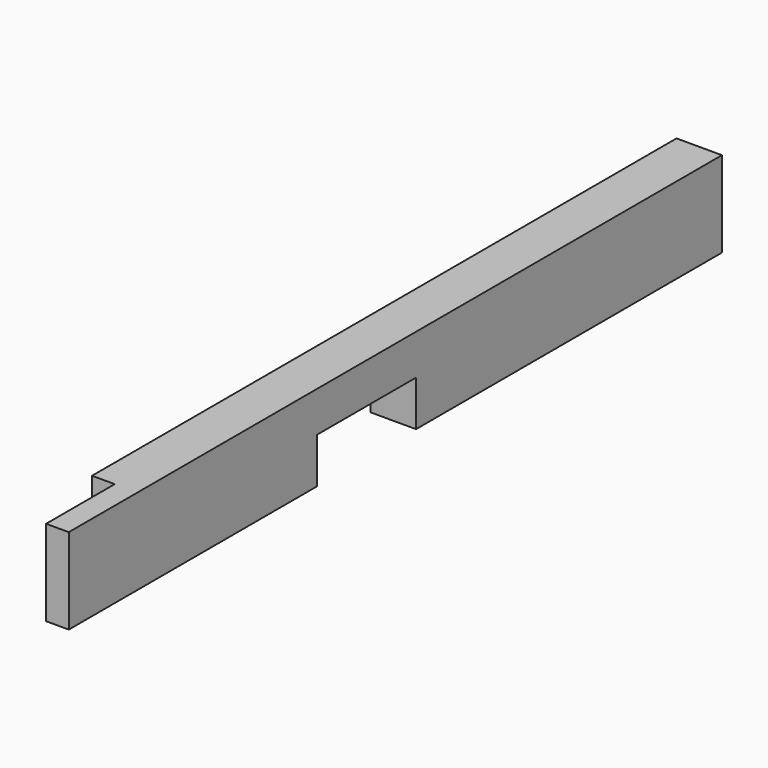
from build123d import *

# Parameters (mm, degrees)
F0_W     = 36
F0_H     = 68
F1_DEPTH = 647
F2_W     = 98
F2_H     = 36
F3_DEPTH = 36
F5_W     = 68
F5_H     = 68
F6_DEPTH = 18


with BuildPart() as f1:
    # F0 (on Front) → F1 (new body)
    with BuildSketch(Plane.XZ):
        Rectangle(F0_W, F0_H)
    extrude(amount=F1_DEPTH)

    # F2 (on face) → F3 (cut, through all)
    with BuildSketch(Plane.YZ.offset(18)):
        with Locations((-352, -16)):
            Rectangle(F2_W, F2_H)
    extrude(amount=-F3_DEPTH, mode=Mode.SUBTRACT)

    # F5 (on face) → F6 (cut)
    with BuildSketch(Plane(origin=(-18, 0, 0), x_dir=(0, -1, 0), z_dir=(-1, 0, 0))):
        with Locations((613, 0)):
            Rectangle(F5_W, F5_H)
    extrude(amount=-F6_DEPTH, mode=Mode.SUBTRACT)


solid = f1.part
